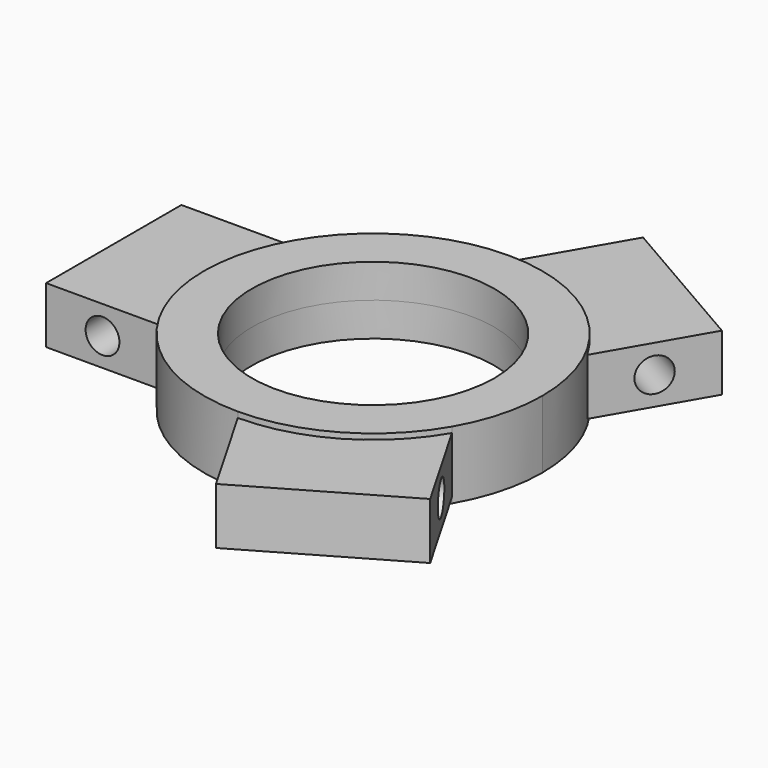
from build123d import *

# Parameters (mm, degrees)
F0_R     = 21.5
F1_DEPTH = 6
F2_DEPTH = 5
F3_R     = 3
F6_DEPTH = 62.3381685741
F4_R     = 3
F7_DEPTH = 78.5067528611
F5_R     = 3
F8_DEPTH = 69.8381685741


with BuildPart() as f1:
    # F0 (on Top) → F1 (new body, symmetric)
    with BuildSketch(Plane.XY):
        with BuildLine():
            ThreePointArc((0, 30), (-15, 25.9807621135), (-25.9807621135, 15))
            ThreePointArc((-25.9807621135, 15), (-30, 0), (-25.9807621135, -15))
            ThreePointArc((-25.9807621135, -15), (-15, -25.9807621135), (0, -30))
            ThreePointArc((0, -30), (15, -25.9807621135), (25.9807621135, -15))
            ThreePointArc((25.9807621135, -15), (28.9777747887, -7.7645713531), (30, 0))
            ThreePointArc((30, 0), (28.9777747887, 7.7645713531), (25.9807621135, 15))
            ThreePointArc((25.9807621135, 15), (15, 25.9807621135), (0, 30))
        make_face()
        Circle(F0_R, mode=Mode.SUBTRACT)
    extrude(amount=F1_DEPTH, both=True)

    # F0 (on Top) → F2 (join, symmetric)
    with BuildSketch(Plane.XY):
        with BuildLine():
            ThreePointArc((-25.9807621135, -15), (-30, 0), (-25.9807621135, 15))
            Line((-25.9807621135, 15), (-46, 15))
            Line((-46, 15), (-46, -15))
            Line((-46, -15), (-25.9807621135, -15))
        make_face()
        with BuildLine():
            ThreePointArc((25.9807621135, -15), (15, -25.9807621135), (0, -30))
            Line((0, -30), (10.0096189432, -47.3371685741))
            Line((10.0096189432, -47.3371685741), (35.9903810568, -32.3371685741))
            Line((35.9903810568, -32.3371685741), (25.9807621135, -15))
        make_face()
        with BuildLine():
            Line((10.0096189432, 47.3371685741), (0, 30))
            ThreePointArc((0, 30), (15, 25.9807621135), (25.9807621135, 15))
            Line((25.9807621135, 15), (35.9903810568, 32.3371685741))
            Line((35.9903810568, 32.3371685741), (10.0096189432, 47.3371685741))
        make_face()
    extrude(amount=F2_DEPTH, both=True)

    # F3 (on face) → F6 (cut, through all)
    with BuildSketch(Plane(origin=(0, 15, 0), x_dir=(-1, 0, 0), z_dir=(0, 1, 0))):
        with Locations((35.9903810568, 0)):
            Circle(F3_R)
    extrude(amount=-F6_DEPTH, mode=Mode.SUBTRACT)

    # F4 (on face) → F7 (cut, through all)
    with BuildSketch(Plane(origin=(12.9903810568, -7.5, 0), x_dir=(0.5, 0.8660254038, 0), z_dir=(0.8660254038, -0.5, 0))):
        with Locations((35.9903810568, 0)):
            Circle(F4_R)
    extrude(amount=-F7_DEPTH, mode=Mode.SUBTRACT)

    # F5 (on face) → F8 (cut, through all)
    with BuildSketch(Plane(origin=(-12.9903810568, -7.5, 0), x_dir=(0.5, -0.8660254038, 0), z_dir=(-0.8660254038, -0.5, 0))):
        with Locations((35.9903810568, 0)):
            Circle(F5_R)
    extrude(amount=-F8_DEPTH, mode=Mode.SUBTRACT)


solid = f1.part
